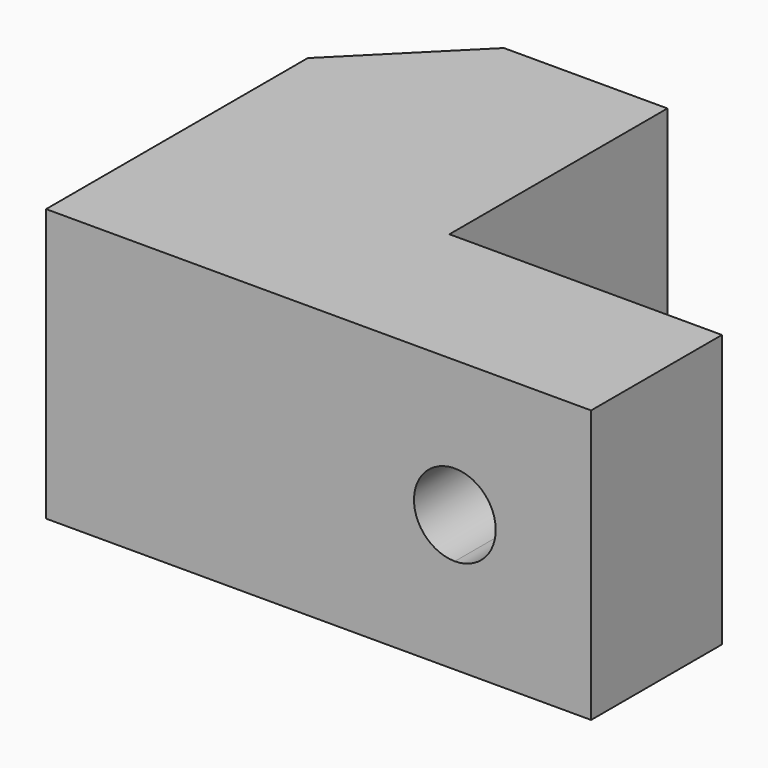
from build123d import *

# Parameters (mm, degrees)
F0_W     = 100
F0_H     = 80
F1_DEPTH = 50
F2_W     = 50
F2_H     = 50
F3_DEPTH = 50
F4_SIZE  = 20
F7_DEPTH = 80.001


with BuildPart() as f1:
    # F0 (on Top) → F1 (new body)
    with BuildSketch(Plane.XY):
        with Locations((50, 40)):
            Rectangle(F0_W, F0_H)
    extrude(amount=F1_DEPTH)

    # F2 (on face) → F3 (cut, through all)
    with BuildSketch(Plane.XY.offset(50)):
        with Locations((75, 55)):
            Rectangle(F2_W, F2_H)
    extrude(amount=-F3_DEPTH, mode=Mode.SUBTRACT)

    # F4
    f4_edges = [f1.edges().sort_by_distance(p)[0] for p in [
        (0, 80, 25),
    ]]
    chamfer(f4_edges, length=F4_SIZE)

    # F6 (on face) → F7 (cut, through all)
    with BuildSketch(Plane.XZ):
        with BuildLine():
            ThreePointArc((82.5, 25), (69.696699, 30.303301), (75, 17.5))
            ThreePointArc((75, 17.5), (80.303301, 19.696699), (82.5, 25))
        make_face()
    extrude(amount=-F7_DEPTH, mode=Mode.SUBTRACT)


solid = f1.part
